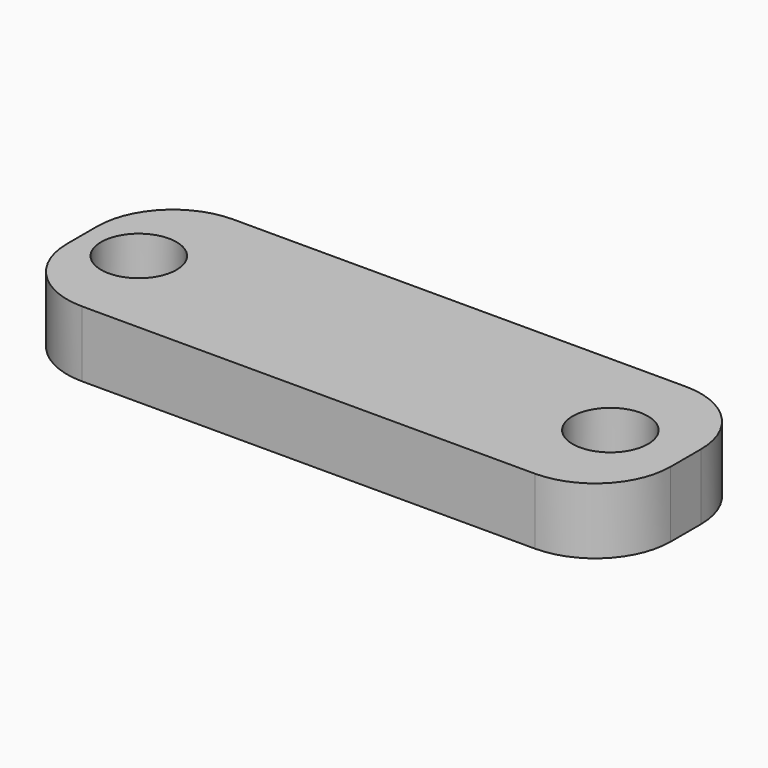
from build123d import *

# Parameters (mm, degrees)
F0_R     = 1.5875
F1_DEPTH = 2.778125


with BuildPart() as f1:
    # F0 (on Top) → F1 (new body)
    with BuildSketch(Plane.XY):
        with BuildLine():
            Line((12.7, 7.9375), (12.7, 0))
            Line((12.7, 0), (22.225, 0))
            ThreePointArc((22.225, 0), (24.470064, 0.929936), (25.4, 3.175))
            Line((25.4, 3.175), (25.4, 4.7625))
            ThreePointArc((25.4, 4.7625), (24.470064, 7.007564), (22.225, 7.9375))
            Line((22.225, 7.9375), (12.7, 7.9375))
        make_face()
        with Locations((22.225, 3.96875)):
            Circle(F0_R, mode=Mode.SUBTRACT)
        with BuildLine():
            ThreePointArc((0, 3.175), (0.929936, 0.929936), (3.175, 0))
            Line((3.175, 0), (12.7, 0))
            Line((12.7, 0), (12.7, 7.9375))
            Line((12.7, 7.9375), (3.175, 7.9375))
            ThreePointArc((3.175, 7.9375), (0.929936, 7.007564), (0, 4.7625))
            Line((0, 4.7625), (0, 3.175))
        make_face()
        with Locations((2.38125, 3.96875)):
            Circle(F0_R, mode=Mode.SUBTRACT)
    extrude(amount=F1_DEPTH)


solid = f1.part
